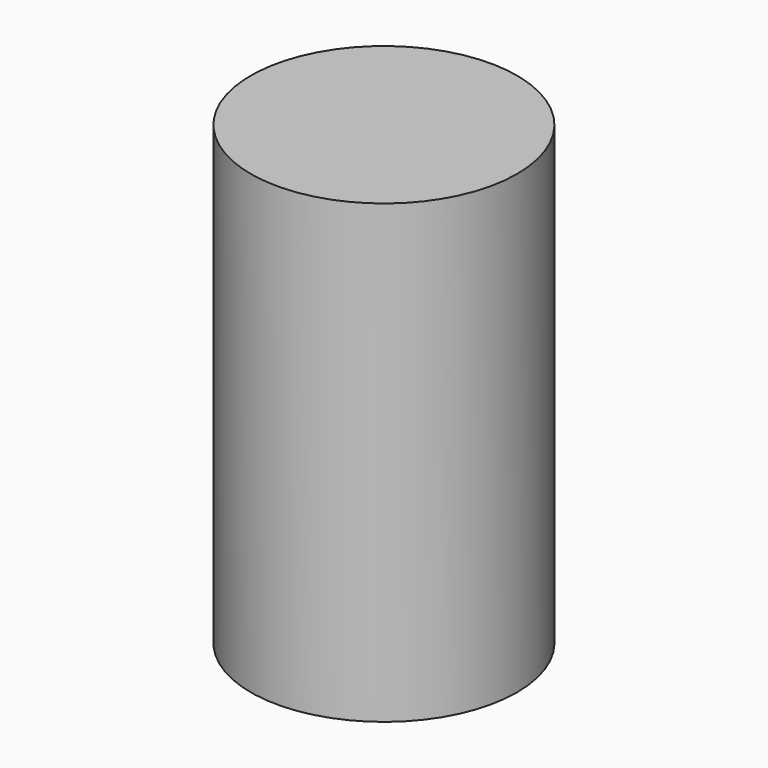
from build123d import *

# Parameters (mm, degrees)
F0_R      = 38.981988
F1_DEPTH  = 98.552
F1_FACE_R = 38.981988
F2_DEPTH  = 35.052


with BuildPart() as f1:
    # F0 (on Top) → F1 (new body)
    with BuildSketch(Plane.XY):
        with Locations((-36.301237, 14.206183)):
            Circle(F0_R)
    extrude(amount=F1_DEPTH)

    # F1_face (on face) → F2 (join)
    with BuildSketch(Plane(origin=(-36.301237, 14.206183, 0), x_dir=(1, 0, 0), z_dir=(0, 0, -1))):
        Circle(F1_FACE_R)
        Circle(F1_FACE_R)
    extrude(amount=F2_DEPTH)


solid = f1.part
